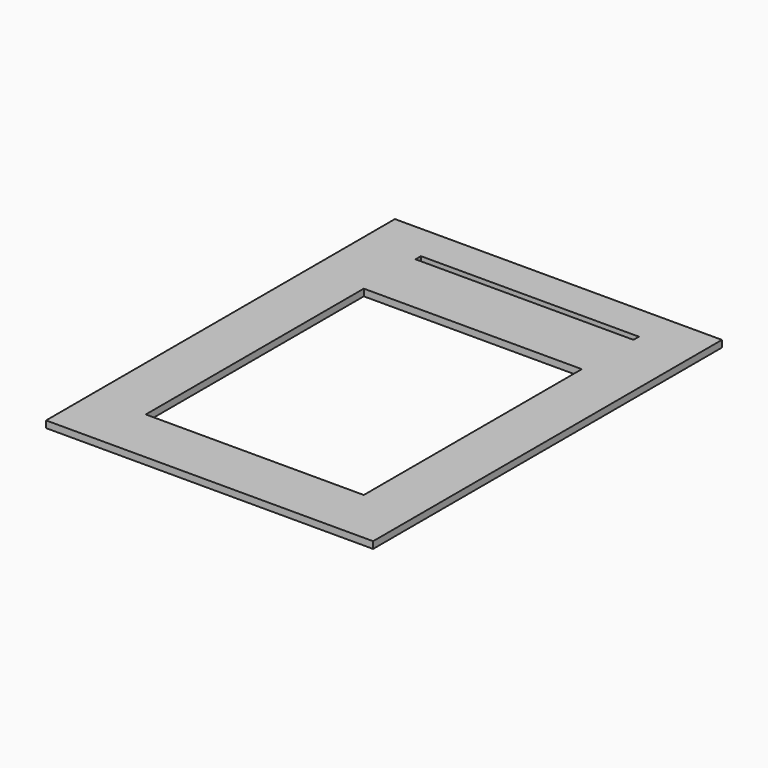
from build123d import *

# Parameters (mm, degrees)
F0_W     = 152.4
F0_H     = 203.2
F0_W_2   = 101.6
F0_H_2   = 127
F0_H_3   = 3.175
F1_DEPTH = 3.175


with BuildPart() as f1:
    # F0 (on Top) → F1 (new body)
    with BuildSketch(Plane.XY):
        with Locations((-6.285638, -2.790794)):
            Rectangle(F0_W, F0_H)
        with Locations((-6.285638, -14.564889)):
            Rectangle(F0_W_2, F0_H_2, mode=Mode.SUBTRACT)
        with Locations((-6.033466, 80.315982)):
            Rectangle(F0_W_2, F0_H_3, mode=Mode.SUBTRACT)
    extrude(amount=F1_DEPTH)


solid = f1.part
